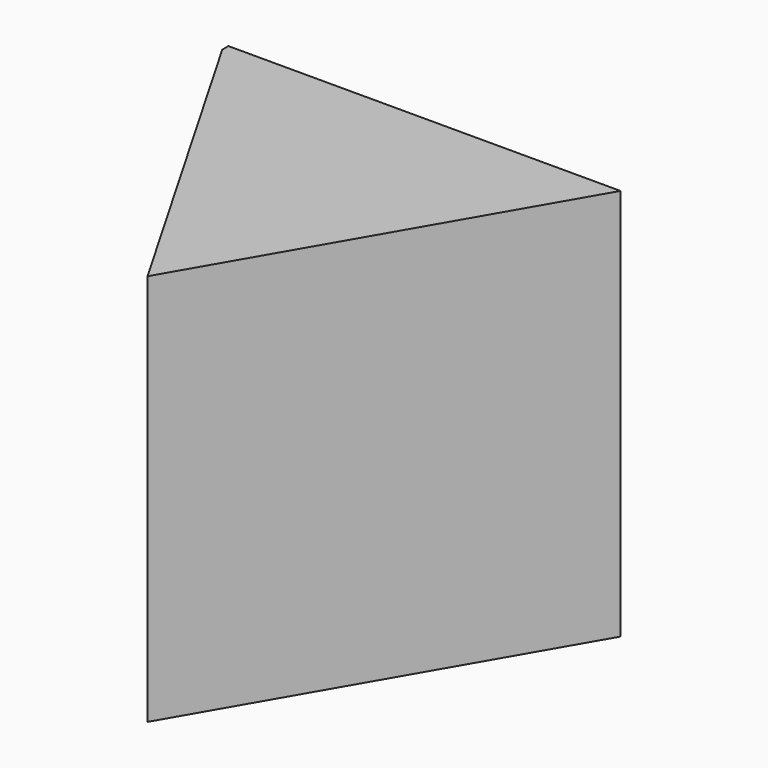
from build123d import *

# Parameters (mm, degrees)
BOX031_W               = 1
BOX031_H               = 1
BOX031_DEPTH           = 0.5
BOX031_PLACEMENT_ANGLE = 30
BOX032_W               = 1
BOX032_H               = 1
BOX032_DEPTH           = 0.5
BOX032_PLACEMENT_ANGLE = 60
BOX030_W               = 0.5
BOX030_H               = 0.5
BOX030_DEPTH           = 0.5
CUT022_PLACEMENT_ANGLE = 180


with BuildPart() as kub031:
    # Box031 → Box031 (new body)
    with BuildSketch(Plane.XY):
        with Locations((0.5, 0.5)):
            Rectangle(BOX031_W, BOX031_H)
    extrude(amount=BOX031_DEPTH)


with BuildPart() as kub031_1:
    # Box031 placement: moved
    add(kub031.part.moved(Location((0.4, 1, 2.02))).rotate(Axis((0.4, 1, 2.02), (0, 0, 1)), BOX031_PLACEMENT_ANGLE))


with BuildPart() as kub032:
    # Box032 → Box032 (new body)
    with BuildSketch(Plane.XY):
        with Locations((0.5, 0.5)):
            Rectangle(BOX032_W, BOX032_H)
    extrude(amount=BOX032_DEPTH)


with BuildPart() as kub032_1:
    # Box032 placement: moved
    add(kub032.part.moved(Location((-0.394, 1, 2.02))).rotate(Axis((-0.394, 1, 2.02), (0, 0, 1)), BOX032_PLACEMENT_ANGLE))


with BuildPart() as cut022:
    # Box030 → Box030 (new body)
    with BuildSketch(Plane(origin=(-0.25, 1.25, 2.02), x_dir=(1, 0, 0), z_dir=(0, 0, 1))):
        with Locations((0.25, 0.25)):
            Rectangle(BOX030_W, BOX030_H)
    extrude(amount=BOX030_DEPTH)

    # Cut021: cut Kub032
    add(kub032_1.part, mode=Mode.SUBTRACT)

    # Cut022: cut Kub031
    add(kub031_1.part, mode=Mode.SUBTRACT)


with BuildPart() as cut022_1:
    # Cut022 placement: moved
    add(cut022.part.rotate(Axis((0, 0, 0), (0, 0, 1)), CUT022_PLACEMENT_ANGLE))


solid = cut022_1.part
